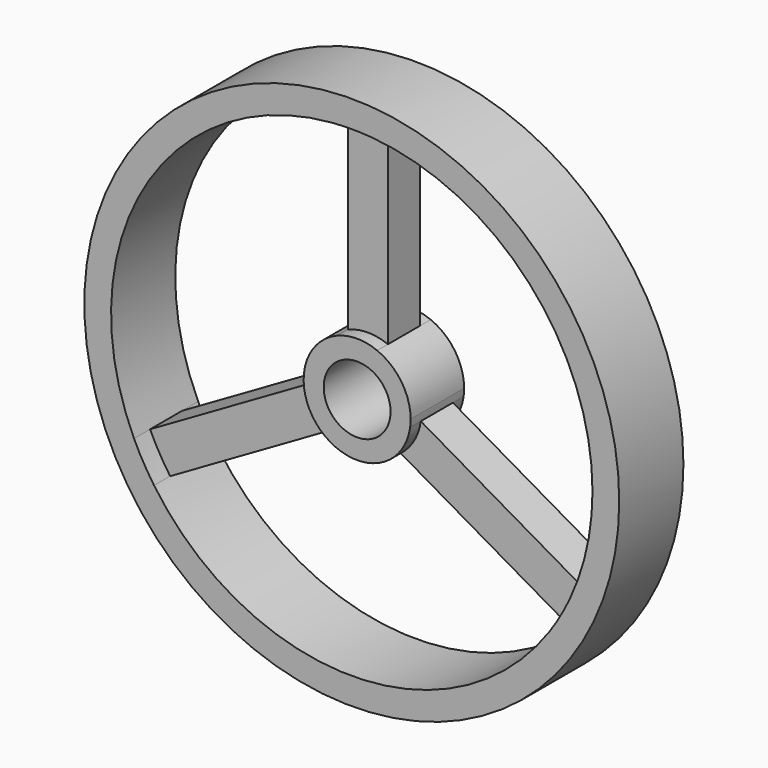
from build123d import *

# Parameters (mm, degrees)
F0_R     = 127
F1_DEPTH = 19.05
F2_DEPTH = 9.525
F0_R_2   = 15.875
F3_DEPTH = 15.875


with BuildPart() as f1:
    # F0 (on Front) → F1 (new body, symmetric)
    with BuildSketch(Plane.XZ):
        Circle(F0_R)
        with BuildLine():
            ThreePointArc((-9.525, 113.902434), (0, 114.3), (9.525, 113.902434))
            ThreePointArc((9.525, 113.902434), (84.122522, 77.381466), (114.3, 0))
            ThreePointArc((114.3, 0), (111.542974, -24.953054), (103.404901, -48.702325))
            ThreePointArc((103.404901, -48.702325), (98.986704, -57.15), (93.879901, -65.200109))
            ThreePointArc((93.879901, -65.200109), (0, -114.3), (-93.879901, -65.200109))
            ThreePointArc((-93.879901, -65.200109), (-98.986704, -57.15), (-103.404901, -48.702325))
            ThreePointArc((-103.404901, -48.702325), (-98.986704, 57.15), (-9.525, 113.902434))
        make_face(mode=Mode.SUBTRACT)
    extrude(amount=F1_DEPTH, both=True)

    # F0 (on Front) → F2 (join, symmetric)
    with BuildSketch(Plane.XZ):
        with BuildLine():
            ThreePointArc((-9.525, 23.54643), (0, 25.4), (9.525, 23.54643))
            Line((9.525, 23.54643), (9.525, 113.902434))
            ThreePointArc((9.525, 113.902434), (0, 114.3), (-9.525, 113.902434))
            Line((-9.525, 113.902434), (-9.525, 23.54643))
        make_face()
        with BuildLine():
            ThreePointArc((-15.629307, -20.022107), (-21.997045, -12.7), (-25.154307, -3.524323))
            Line((-25.154307, -3.524323), (-103.404901, -48.702325))
            ThreePointArc((-103.404901, -48.702325), (-98.986704, -57.15), (-93.879901, -65.200109))
            Line((-93.879901, -65.200109), (-15.629307, -20.022107))
        make_face()
        with BuildLine():
            Line((103.404901, -48.702325), (25.154307, -3.524323))
            ThreePointArc((25.154307, -3.524323), (21.997045, -12.7), (15.629307, -20.022107))
            Line((15.629307, -20.022107), (93.879901, -65.200109))
            ThreePointArc((93.879901, -65.200109), (98.986704, -57.15), (103.404901, -48.702325))
        make_face()
    extrude(amount=F2_DEPTH, both=True)

    # F0 (on Front) → F3 (join, symmetric)
    with BuildSketch(Plane.XZ):
        with BuildLine():
            ThreePointArc((25.154307, -3.524323), (25.338502, -1.766438), (25.4, 0))
            ThreePointArc((25.4, 0), (21.060567, 14.199032), (9.525, 23.54643))
            ThreePointArc((9.525, 23.54643), (0, 25.4), (-9.525, 23.54643))
            ThreePointArc((-9.525, 23.54643), (-21.997045, 12.7), (-25.154307, -3.524323))
            ThreePointArc((-25.154307, -3.524323), (-21.997045, -12.7), (-15.629307, -20.022107))
            ThreePointArc((-15.629307, -20.022107), (0, -25.4), (15.629307, -20.022107))
            ThreePointArc((15.629307, -20.022107), (21.997045, -12.7), (25.154307, -3.524323))
        make_face()
        Circle(F0_R_2, mode=Mode.SUBTRACT)
    extrude(amount=F3_DEPTH, both=True)


solid = f1.part
